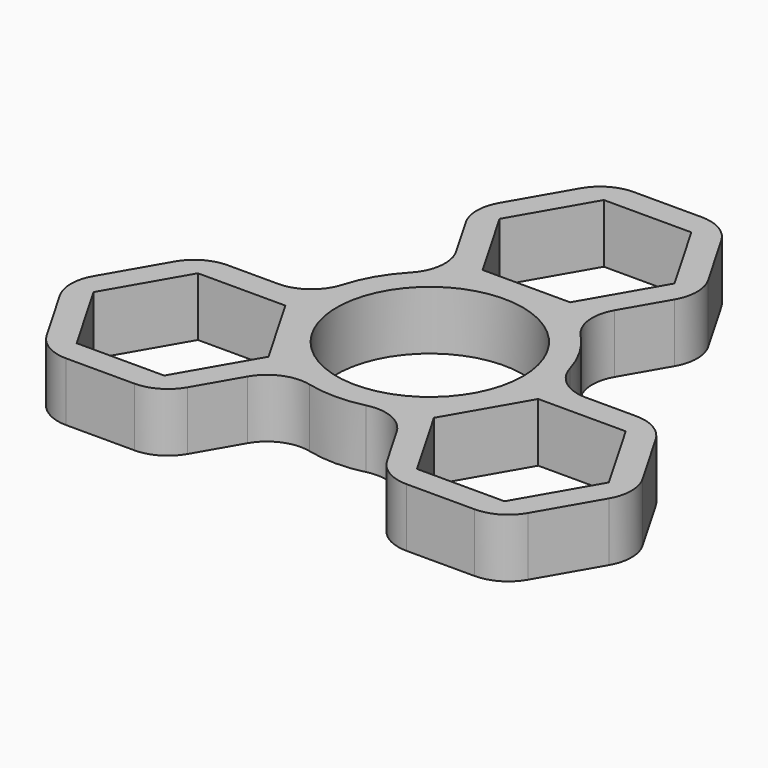
from build123d import *

# Parameters (mm, degrees)
F0_R     = 11.1
F1_DEPTH = 7


with BuildPart() as f1:
    # F0 (on Top) → F1 (new body)
    with BuildSketch(Plane.XY):
        with BuildLine():
            Line((4.058772, 35.45), (-4.058772, 35.45))
            ThreePointArc((-4.058772, 35.45), (-6.558772, 34.780127), (-8.388899, 32.95))
            Line((-8.388899, 32.95), (-12.447672, 25.92))
            ThreePointArc((-12.447672, 25.92), (-13.117545, 23.42), (-12.447672, 20.92))
            Line((-12.447672, 20.92), (-9.4492, 15.726494))
            ThreePointArc((-9.4492, 15.726494), (-8.815683, 12.624629), (-10.172173, 9.764061))
            ThreePointArc((-10.172173, 9.764061), (-12.210958, 7.05), (-13.542012, 3.92733))
            ThreePointArc((-13.542012, 3.92733), (-15.341091, 1.322291), (-18.344143, 0.32))
            Line((-18.344143, 0.32), (-24.341087, 0.32))
            ThreePointArc((-24.341087, 0.32), (-26.841087, -0.349873), (-28.671214, -2.18))
            Line((-28.671214, -2.18), (-32.729987, -9.21))
            ThreePointArc((-32.729987, -9.21), (-33.39986, -11.71), (-32.729987, -14.21))
            Line((-32.729987, -14.21), (-28.671214, -21.24))
            ThreePointArc((-28.671214, -21.24), (-26.841087, -23.070127), (-24.341087, -23.74))
            Line((-24.341087, -23.74), (-16.223543, -23.74))
            ThreePointArc((-16.223543, -23.74), (-13.723543, -23.070127), (-11.893416, -21.24))
            Line((-11.893416, -21.24), (-8.894944, -16.046494))
            ThreePointArc((-8.894944, -16.046494), (-6.525408, -13.94692), (-3.369838, -13.691391))
            ThreePointArc((-3.369838, -13.691391), (0, -14.1), (3.369838, -13.691391))
            ThreePointArc((3.369838, -13.691391), (6.525408, -13.94692), (8.894944, -16.046494))
            Line((8.894944, -16.046494), (11.893416, -21.24))
            ThreePointArc((11.893416, -21.24), (13.723543, -23.070127), (16.223543, -23.74))
            Line((16.223543, -23.74), (24.341087, -23.74))
            ThreePointArc((24.341087, -23.74), (26.841087, -23.070127), (28.671214, -21.24))
            Line((28.671214, -21.24), (32.729987, -14.21))
            ThreePointArc((32.729987, -14.21), (33.39986, -11.71), (32.729987, -9.21))
            Line((32.729987, -9.21), (28.671214, -2.18))
            ThreePointArc((28.671214, -2.18), (26.841087, -0.349873), (24.341087, 0.32))
            Line((24.341087, 0.32), (18.344143, 0.32))
            ThreePointArc((18.344143, 0.32), (15.341091, 1.322291), (13.542012, 3.92733))
            ThreePointArc((13.542012, 3.92733), (12.210958, 7.05), (10.172173, 9.764061))
            ThreePointArc((10.172173, 9.764061), (8.815683, 12.624629), (9.4492, 15.726494))
            Line((9.4492, 15.726494), (12.447672, 20.92))
            ThreePointArc((12.447672, 20.92), (13.117545, 23.42), (12.447672, 25.92))
            Line((12.447672, 25.92), (8.388899, 32.95))
            ThreePointArc((8.388899, 32.95), (6.558772, 34.780127), (4.058772, 35.45))
        make_face()
        Polygon((-30.709261, -11.71), (-25.495788, -2.68), (-15.068842, -2.68), (-9.855369, -11.71), (-15.068842, -20.74), (-25.495788, -20.74), align=None, mode=Mode.SUBTRACT)
        Polygon((25.495788, -20.74), (15.068842, -20.74), (9.855369, -11.71), (15.068842, -2.68), (25.495788, -2.68), (30.709261, -11.71), align=None, mode=Mode.SUBTRACT)
        Circle(F0_R, mode=Mode.SUBTRACT)
        Polygon((-10.426946, 23.42), (-5.213473, 32.45), (5.213473, 32.45), (10.426946, 23.42), (5.213473, 14.39), (-5.213473, 14.39), align=None, mode=Mode.SUBTRACT)
    extrude(amount=F1_DEPTH)


solid = f1.part
